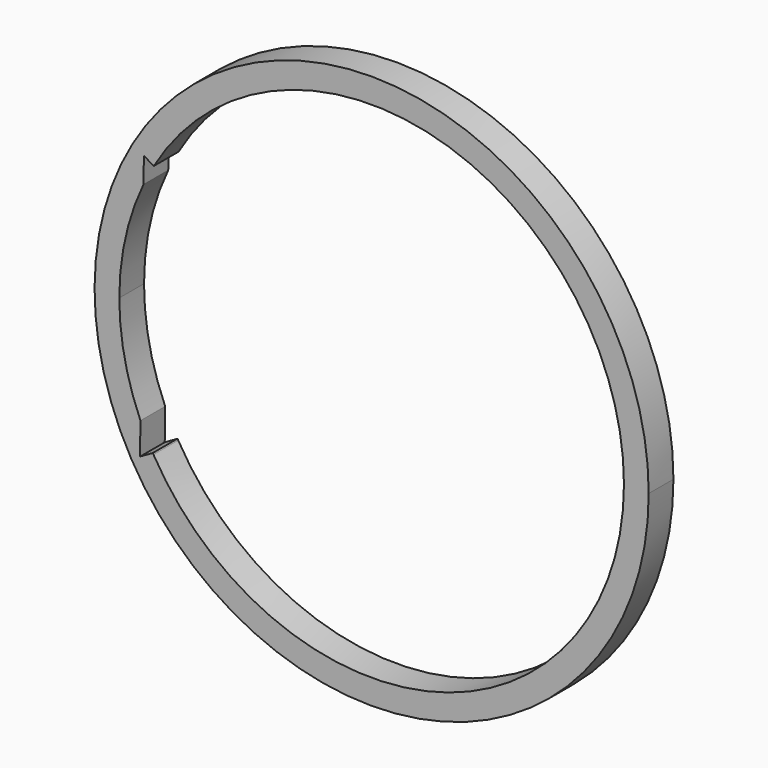
from build123d import *

# Parameters (mm, degrees)
F1_DEPTH = 25


with BuildPart() as f1:
    # F0 (on Front) → F1 (new body)
    with BuildSketch(Plane.XZ):
        with BuildLine():
            ThreePointArc((-194.281157, -111.493641), (57.693244, -216.442809), (224, 0))
            ThreePointArc((224, 0), (58.573691, 216.206204), (-193.367167, 113.071388))
            Line((-193.367167, 113.071388), (-184.133718, 107.672132))
            Line((-184.133718, 107.672132), (-176.102241, 102.975729))
            ThreePointArc((-176.102241, 102.975729), (53.343898, 196.902079), (204, 0))
            ThreePointArc((204, 0), (53.078099, -196.973895), (-176.379562, -102.5))
            ThreePointArc((-176.379562, -102.5), (-176.657747, -102.019803), (-176.934625, -101.538852))
            Line((-176.934625, -101.538852), (-187.276068, -107.473576))
            Line((-187.276068, -107.473576), (-194.281157, -111.493641))
        make_face()
        with BuildLine():
            Line((-184.133718, 107.672132), (-193.367167, 113.071388))
            ThreePointArc((-193.367167, 113.071388), (-223.998145, 0.911683), (-194.281157, -111.493641))
            Line((-194.281157, -111.493641), (-187.276068, -107.473576))
            Line((-187.276068, -107.473576), (-186.90046, -81.757066))
            ThreePointArc((-186.90046, -81.757066), (-199.67936, -41.763058), (-204, 0))
            ThreePointArc((-204, 0), (-199.048152, 44.674747), (-184.43301, 87.180645))
            Line((-184.43301, 87.180645), (-184.133718, 107.672132))
        make_face()
    extrude(amount=F1_DEPTH)


solid = f1.part
